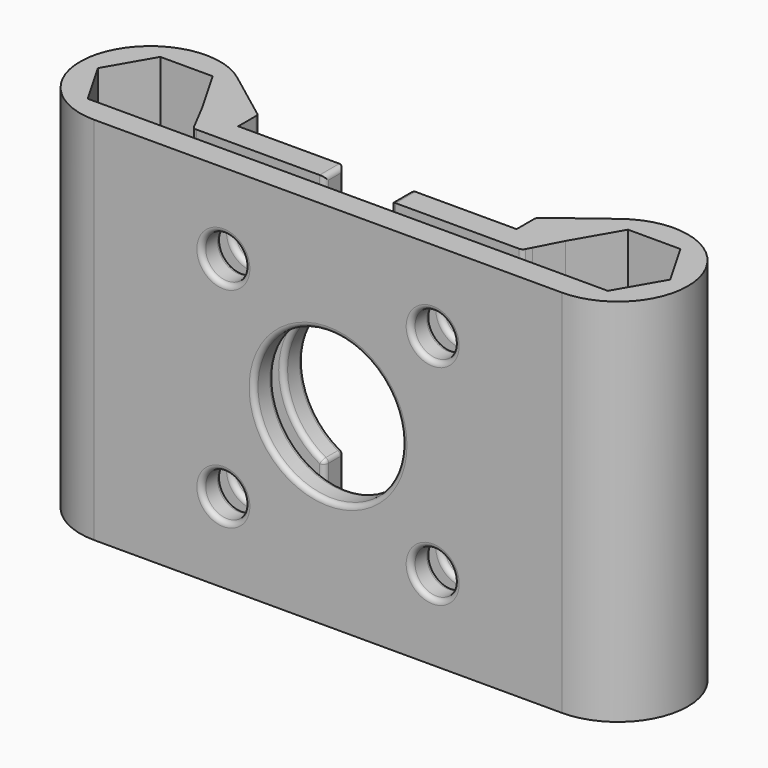
from build123d import *

# Parameters (mm, degrees)
F2_DEPTH = 15
F0_R     = 1.75
F0_R_2   = 6
F3_DEPTH = 5.676
F4_R     = 0.4


with BuildPart() as f2:
    # F1 (on Top) → F2 (new body, symmetric)
    with BuildSketch(Plane.XY):
        with BuildLine():
            Line((14.6359317122, -3.675), (-14.6359317122, -3.675))
            ThreePointArc((-14.6359317122, -3.675), (-16.5780555243, -5.1507887745), (-18.9602813742, -5.675))
            Line((-18.9602813742, -5.675), (18.9602813742, -5.675))
            ThreePointArc((18.9602813742, -5.675), (16.5780555243, -5.1507887745), (14.6359317122, -3.675))
        make_face()
        with BuildLine():
            Line((-14.6359317122, -3.675), (-16.838519135, -3.675))
            Line((-16.838519135, -3.675), (-21.0820436135, -3.675))
            Line((-21.0820436135, -3.675), (-23.2038058528, 0))
            Line((-23.2038058528, 0), (-21.0820436135, 3.675))
            Line((-21.0820436135, 3.675), (-16.838519135, 3.675))
            Line((-16.838519135, 3.675), (-14.7167568957, 0))
            Line((-14.7167568957, 0), (-13.66087836, -2.0302592673))
            ThreePointArc((-13.66087836, -2.0302592673), (-13.4513876797, -1.3629802869), (-13.3255675394, -0.675))
            ThreePointArc((-13.3255675394, -0.675), (-13.2953618685, -0.3381005675), (-13.2852813742, 0))
            ThreePointArc((-13.2852813742, 0), (-13.8820328084, 2.5331830773), (-15.5467849877, 4.5336152703))
            ThreePointArc((-15.5467849877, 4.5336152703), (-24.3423763037, 1.7996330655), (-18.9602813742, -5.675))
            ThreePointArc((-18.9602813742, -5.675), (-16.5780555243, -5.1507887745), (-14.6359317122, -3.675))
        make_face()
        with BuildLine():
            ThreePointArc((-13.3255675394, -0.675), (-13.4513876797, -1.3629802869), (-13.66087836, -2.0302592673))
            Line((-13.66087836, -2.0302592673), (-13.3255675394, -2.675))
            Line((-13.3255675394, -2.675), (-2.6852813742, -2.675))
            Line((-2.6852813742, -2.675), (-2.6852813742, -0.675))
            Line((-2.6852813742, -0.675), (-11.2852813742, -0.675))
            Line((-11.2852813742, -0.675), (-13.3255675394, -0.675))
        make_face()
        with BuildLine():
            ThreePointArc((-13.2852813742, 0), (-13.2953618685, -0.3381005675), (-13.3255675394, -0.675))
            Line((-13.3255675394, -0.675), (-11.2852813742, -0.675))
            Line((-11.2852813742, -0.675), (-11.2852813742, 1.325))
            Line((-11.2852813742, 1.325), (-15.5467849877, 4.5336152703))
            ThreePointArc((-15.5467849877, 4.5336152703), (-13.8820328084, 2.5331830773), (-13.2852813742, 0))
        make_face()
        with BuildLine():
            Line((16.838519135, -3.675), (14.6359317122, -3.675))
            ThreePointArc((14.6359317122, -3.675), (16.5780555243, -5.1507887745), (18.9602813742, -5.675))
            ThreePointArc((18.9602813742, -5.675), (22.9731123575, -4.0128309832), (24.6352813742, 0))
            ThreePointArc((24.6352813742, 0), (21.4934644515, 5.0782485659), (15.5467849877, 4.5336152703))
            ThreePointArc((15.5467849877, 4.5336152703), (13.7401333581, 2.2261355954), (13.3255675394, -0.675))
            ThreePointArc((13.3255675394, -0.675), (13.4513876797, -1.3629802869), (13.66087836, -2.0302592673))
            Line((13.66087836, -2.0302592673), (14.7167568957, 0))
            Line((14.7167568957, 0), (16.838519135, 3.675))
            Line((16.838519135, 3.675), (21.0820436135, 3.675))
            Line((21.0820436135, 3.675), (23.2038058528, 0))
            Line((23.2038058528, 0), (21.0820436135, -3.675))
            Line((21.0820436135, -3.675), (16.838519135, -3.675))
        make_face()
        with BuildLine():
            Line((11.2852813742, -0.675), (13.3255675394, -0.675))
            ThreePointArc((13.3255675394, -0.675), (13.7401333581, 2.2261355954), (15.5467849877, 4.5336152703))
            Line((15.5467849877, 4.5336152703), (11.2852813742, 1.325))
            Line((11.2852813742, 1.325), (11.2852813742, -0.675))
        make_face()
        with BuildLine():
            Line((13.3255675394, -2.675), (13.66087836, -2.0302592673))
            ThreePointArc((13.66087836, -2.0302592673), (13.4513876797, -1.3629802869), (13.3255675394, -0.675))
            Line((13.3255675394, -0.675), (11.2852813742, -0.675))
            Line((11.2852813742, -0.675), (2.6852813742, -0.675))
            Line((2.6852813742, -0.675), (2.6852813742, -2.675))
            Line((2.6852813742, -2.675), (13.3255675394, -2.675))
        make_face()
    extrude(amount=F2_DEPTH, both=True)

    # F0 (on Front) → F3 (cut, through all)
    with BuildSketch(Plane.XZ):
        with Locations((-8.4852813742, -8.4852813742)):
            Circle(F0_R)
        with Locations((-8.4852813742, 8.4852813742)):
            Circle(F0_R)
        with Locations((8.4852813742, -8.4852813742)):
            Circle(F0_R)
        with Locations((8.4852813742, 8.4852813742)):
            Circle(F0_R)
        Circle(F0_R_2)
    extrude(amount=F3_DEPTH, mode=Mode.SUBTRACT)

    # F4
    f4_edges = [f2.edges().sort_by_distance(p)[0] for p in [
        (-13.325568, -2.675, 0),
        (13.325568, -2.675, 0),
        (11.285281, 1.325, 0),
        (-11.285281, 1.325, 0),
        (-2.685281, -1.675, -5.365563),
        (-6, -2.675, 0),
        (-2.685281, -1.675, 5.365563),
        (-6, -0.675, 0),
        (-2.685281, -2.675, 10.182781),
        (-2.685281, -1.675, 15),
        (-2.685281, -0.675, 10.182781),
        (-2.685281, -2.675, -10.182781),
        (-2.685281, -0.675, -10.182781),
        (-2.685281, -1.675, -15),
        (2.685281, -0.675, 10.182781),
        (2.685281, -1.675, 15),
        (2.685281, -2.675, 10.182781),
        (2.685281, -1.675, 5.365563),
        (6, -0.675, 0),
        (2.685281, -1.675, -5.365563),
        (6, -2.675, 0),
        (2.685281, -0.675, -10.182781),
        (2.685281, -2.675, -10.182781),
        (2.685281, -1.675, -15),
        (-6, -3.675, 0),
        (6, -4.675, 0),
        (-6, -5.675, 0),
        (-10.235281, -3.675, 8.485281),
        (-6.735281, -4.675, 8.485281),
        (-10.235281, -5.675, 8.485281),
        (-10.235281, -0.675, 8.485281),
        (-6.735281, -1.675, 8.485281),
        (-10.235281, -2.675, 8.485281),
        (-10.235281, -3.675, -8.485281),
        (-6.735281, -4.675, -8.485281),
        (-10.235281, -5.675, -8.485281),
        (-10.235281, -0.675, -8.485281),
        (-6.735281, -1.675, -8.485281),
        (-10.235281, -2.675, -8.485281),
        (6.735281, -3.675, -8.485281),
        (10.235281, -4.675, -8.485281),
        (6.735281, -5.675, -8.485281),
        (6.735281, -0.675, -8.485281),
        (10.235281, -1.675, -8.485281),
        (6.735281, -2.675, -8.485281),
        (6.735281, -3.675, 8.485281),
        (10.235281, -4.675, 8.485281),
        (6.735281, -5.675, 8.485281),
        (6.735281, -0.675, 8.485281),
        (10.235281, -1.675, 8.485281),
        (6.735281, -2.675, 8.485281),
    ]]
    fillet(f4_edges, radius=F4_R)


solid = f2.part
